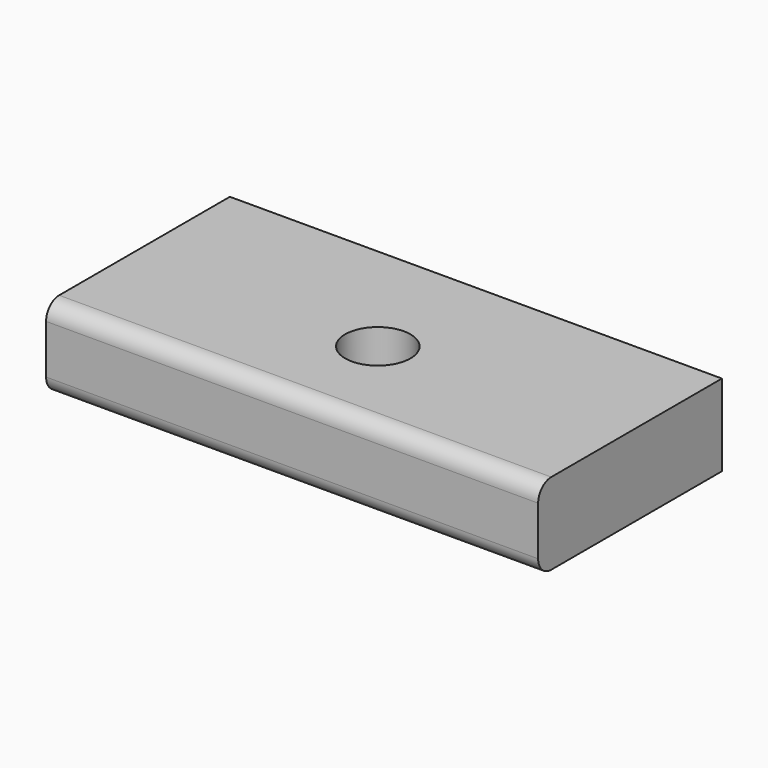
from build123d import *

# Parameters (mm, degrees)
F0_W     = 150.715396
F0_H     = 70.35607
F1_DEPTH = 25
F2_R     = 5
F3_R     = 5
F5_D     = 20


with BuildPart() as f1:
    # F0 (on Top) → F1 (new body)
    with BuildSketch(Plane.XY):
        Rectangle(F0_W, F0_H)
    extrude(amount=F1_DEPTH)

    # F2
    f2_edges = [f1.edges().sort_by_distance(p)[0] for p in [
        (0, -35.178035, 25),
    ]]
    fillet(f2_edges, radius=F2_R)

    # F3
    f3_edges = [f1.edges().sort_by_distance(p)[0] for p in [
        (0, -35.178035, 0),
    ]]
    fillet(f3_edges, radius=F3_R)

    # F5 (through all)
    with Locations(Plane.XY.offset(25)):
        with Locations((0.679701, -3.219078)):
            Hole(F5_D / 2)


solid = f1.part
